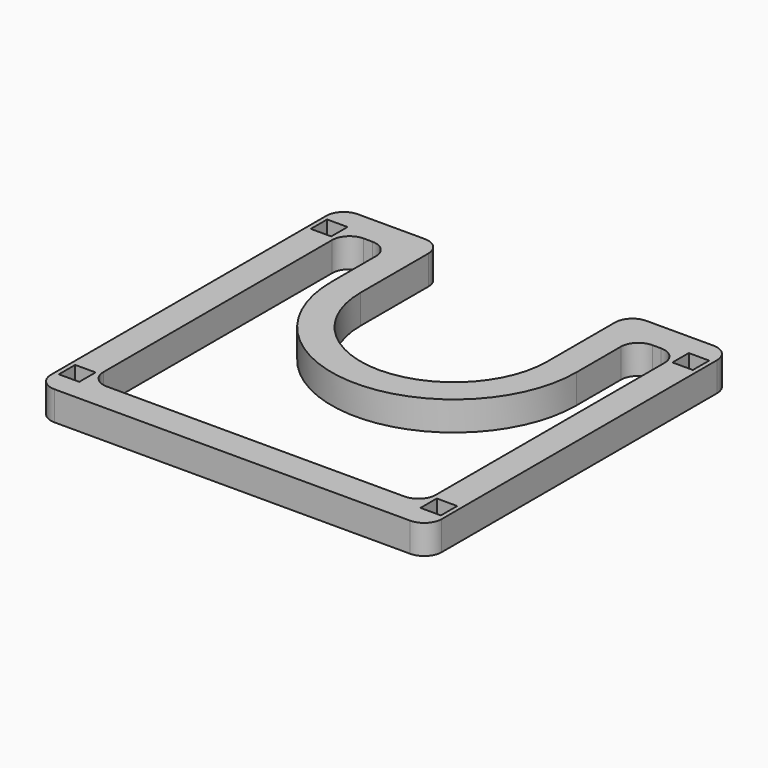
from build123d import *

# Parameters (mm, degrees)
F0_W     = 3.5
F0_H     = 3.5
F0_W_2   = 5
F0_H_2   = 12.5
F1_DEPTH = 5
F2_R     = 3


with BuildPart() as f1:
    # F0 (on Top) → F1 (new body)
    with BuildSketch(Plane.XY):
        Polygon((33.5, -32.5), (33.5, 32.5), (16, 32.5), (16, 27.5), (21, 27.5), (28.5, 27.5), (28.5, -27.5), (-28.5, -27.5), (-28.5, 27.5), (-21, 27.5), (-16, 27.5), (-16, 32.5), (-33.5, 32.5), (-33.5, -32.5), align=None)
        with Locations((-31, -27)):
            Rectangle(F0_W, F0_H, mode=Mode.SUBTRACT)
        with Locations((31, -27)):
            Rectangle(F0_W, F0_H, mode=Mode.SUBTRACT)
        with Locations((-31, 27)):
            Rectangle(F0_W, F0_H, mode=Mode.SUBTRACT)
        with Locations((31, 27)):
            Rectangle(F0_W, F0_H, mode=Mode.SUBTRACT)
        with Locations((-18.5, 21.25)):
            Rectangle(F0_W_2, F0_H_2)
        with BuildLine():
            Line((21, 15), (16, 15))
            ThreePointArc((16, 15), (0, -1), (-16, 15))
            Line((-16, 15), (-21, 15))
            ThreePointArc((-21, 15), (0, -6), (21, 15))
        make_face()
        with Locations((18.5, 21.25)):
            Rectangle(F0_W_2, F0_H_2)
    extrude(amount=F1_DEPTH)

    # F2
    f2_edges = [f1.edges().sort_by_distance(p)[0] for p in [
        (-33.5, 32.5, 2.5),
        (-16, 32.5, 2.5),
        (16, 32.5, 2.5),
        (33.5, 32.5, 2.5),
        (-28.5, 27.5, 2.5),
        (-21, 27.5, 2.5),
        (21, 27.5, 2.5),
        (28.5, 27.5, 2.5),
        (28.5, -27.5, 2.5),
        (-28.5, -27.5, 2.5),
        (33.5, -32.5, 2.5),
        (-33.5, -32.5, 2.5),
    ]]
    fillet(f2_edges, radius=F2_R)


solid = f1.part
